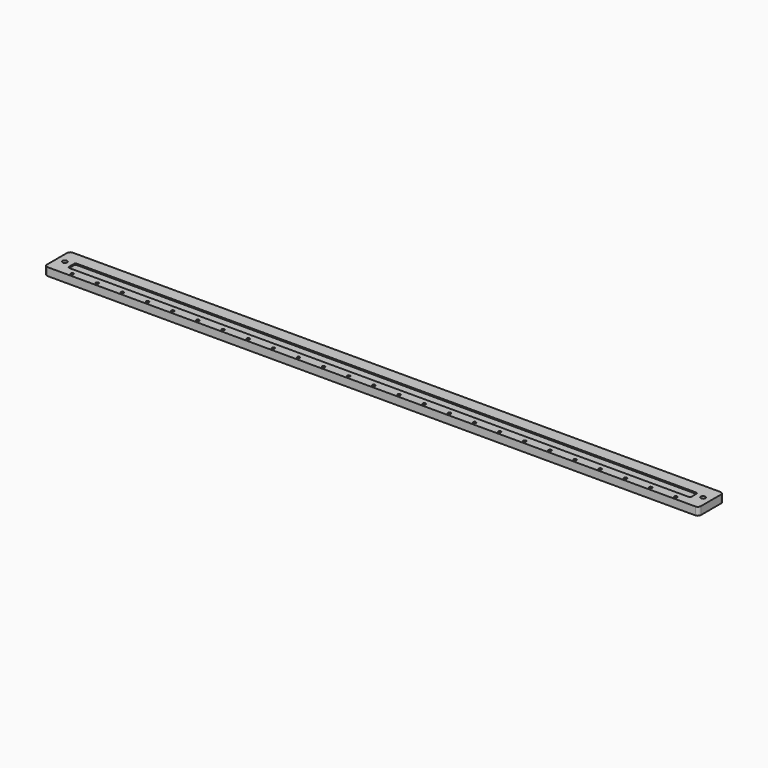
from build123d import *

# Parameters (mm, degrees)
F0_W     = 528.32
F0_H     = 25.4
F1_DEPTH = 3.175
F2_W     = 502.92
F2_H     = 7.62
F3_DEPTH = 1.016
F4_R     = 1.8288
F5_DEPTH = 6.351
F7_D     = 2.2606
F8_R     = 2.54
F9_R     = 1.27


with BuildPart() as f1:
    # F0 (on Top) → F1 (new body, symmetric)
    with BuildSketch(Plane.XY):
        Rectangle(F0_W, F0_H)
    extrude(amount=F1_DEPTH, both=True)

    # F2 (on face) → F3 (cut)
    with BuildSketch(Plane.XY.offset(3.175)):
        with Locations((0, -1.27)):
            Rectangle(F2_W, F2_H)
    extrude(amount=-F3_DEPTH, mode=Mode.SUBTRACT)

    # F4 (on face) → F5 (cut, through all)
    with BuildSketch(Plane.XY.offset(3.175)):
        with Locations((-257.81, 0)):
            Circle(F4_R)
        with Locations((257.81, 0)):
            Circle(F4_R)
    extrude(amount=-F5_DEPTH, mode=Mode.SUBTRACT)

    # F7 (through all)
    with Locations(Plane.XY.offset(3.175)):
        with Locations((-60.96, -10.16), (-40.64, -10.16), (182.88, -10.16), (-121.92, -10.16), (-81.28, -10.16), (-101.6, -10.16), (203.2, -10.16), (60.96, -10.16), (40.64, -10.16), (243.84, -10.16), (223.52, -10.16), (-20.32, -10.16), (162.56, -10.16), (0, -10.16), (20.32, -10.16), (142.24, -10.16), (121.92, -10.16), (101.6, -10.16), (81.28, -10.16), (-243.84, -10.16), (-223.52, -10.16), (-203.2, -10.16), (-182.88, -10.16), (-162.56, -10.16), (-142.24, -10.16)):
            Hole(F7_D / 2)

    # F8
    f8_edges = [f1.edges().sort_by_distance(p)[0] for p in [
        (264.16, -12.7, 0),
        (264.16, 12.7, 0),
        (-264.16, -12.7, 0),
        (-264.16, 12.7, 0),
    ]]
    fillet(f8_edges, radius=F8_R)

    # F9
    f9_edges = [f1.edges().sort_by_distance(p)[0] for p in [
        (-251.46, -5.08, 2.667),
        (-251.46, 2.54, 2.667),
        (251.46, -5.08, 2.667),
        (251.46, 2.54, 2.667),
    ]]
    fillet(f9_edges, radius=F9_R)


solid = f1.part
